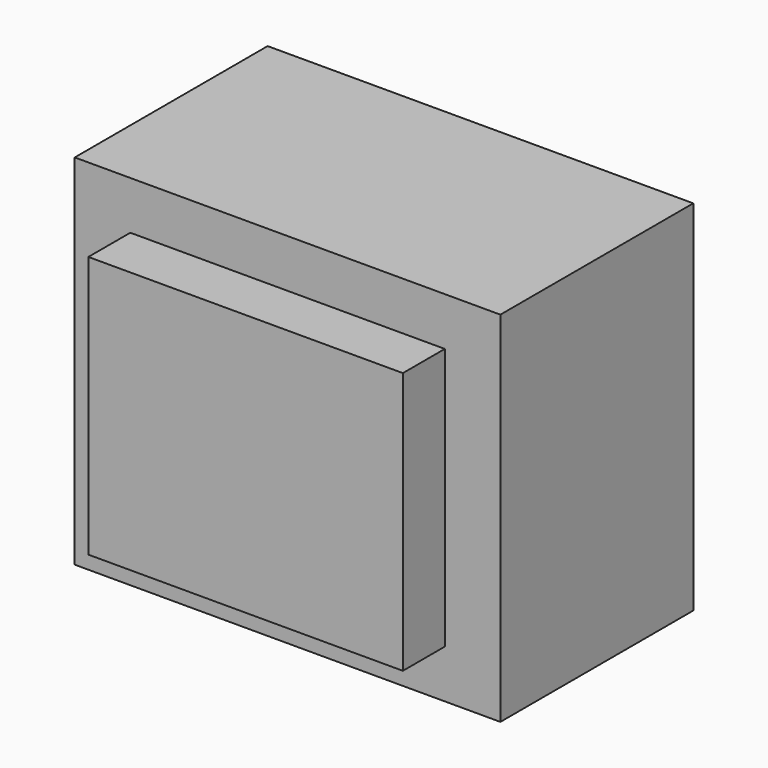
from build123d import *

# Parameters (mm, degrees)
F0_W     = 40.6
F0_H     = 34.2
F1_DEPTH = 23
F2_W     = 30
F2_H     = 25
F3_DEPTH = 5
F4_R     = 0.4
F5_DEPTH = 4


with BuildPart() as f1:
    # F0 (on Front) → F1 (new body)
    with BuildSketch(Plane.XZ):
        Rectangle(F0_W, F0_H)
    extrude(amount=F1_DEPTH)

    # F2 (on face) → F3 (join)
    with BuildSketch(Plane.XZ.offset(23)):
        Rectangle(F2_W, F2_H)
    extrude(amount=F3_DEPTH)

    # F4 (on face) → F5 (join)
    with BuildSketch(Plane(origin=(0, 0, 0), x_dir=(-1, 0, 0), z_dir=(0, 1, 0))):
        with Locations((10, 13.75)):
            Circle(F4_R)
        with Locations((-10, 13.75)):
            Circle(F4_R)
        with Locations((-10, -13.75)):
            Circle(F4_R)
        with Locations((-5, -13.75)):
            Circle(F4_R)
        with Locations((10, -13.75)):
            Circle(F4_R)
        with Locations((5, -13.75)):
            Circle(F4_R)
    extrude(amount=F5_DEPTH)


solid = f1.part
